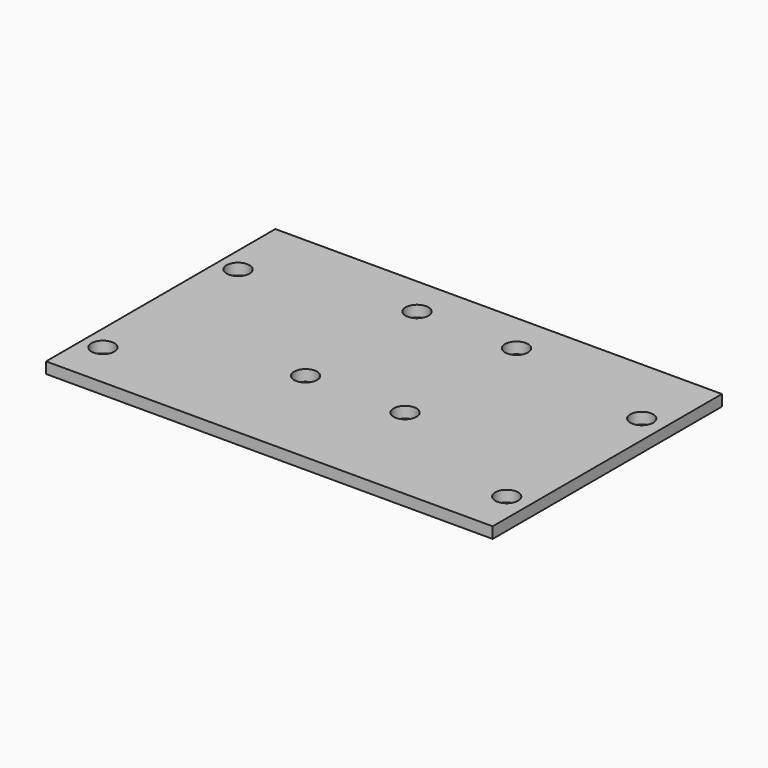
from build123d import *

# Parameters (mm, degrees)
F0_W     = 71.247
F0_H     = 45.72
F0_R     = 1.8288
F1_DEPTH = 1.778


with BuildPart() as f1:
    # F0 (on Top) → F1 (new body)
    with BuildSketch(Plane.XY):
        with Locations((35.6235, 22.86)):
            Rectangle(F0_W, F0_H)
        with Locations((3.175, 7.366)):
            Circle(F0_R, mode=Mode.SUBTRACT)
        with Locations((27.686, 17.145)):
            Circle(F0_R, mode=Mode.SUBTRACT)
        with Locations((67.5894, 7.366)):
            Circle(F0_R, mode=Mode.SUBTRACT)
        with Locations((43.561, 17.145)):
            Circle(F0_R, mode=Mode.SUBTRACT)
        with Locations((3.175, 34.3154)):
            Circle(F0_R, mode=Mode.SUBTRACT)
        with Locations((27.686, 39.37)):
            Circle(F0_R, mode=Mode.SUBTRACT)
        with Locations((43.561, 39.37)):
            Circle(F0_R, mode=Mode.SUBTRACT)
        with Locations((67.5894, 34.3154)):
            Circle(F0_R, mode=Mode.SUBTRACT)
    extrude(amount=F1_DEPTH)


solid = f1.part
